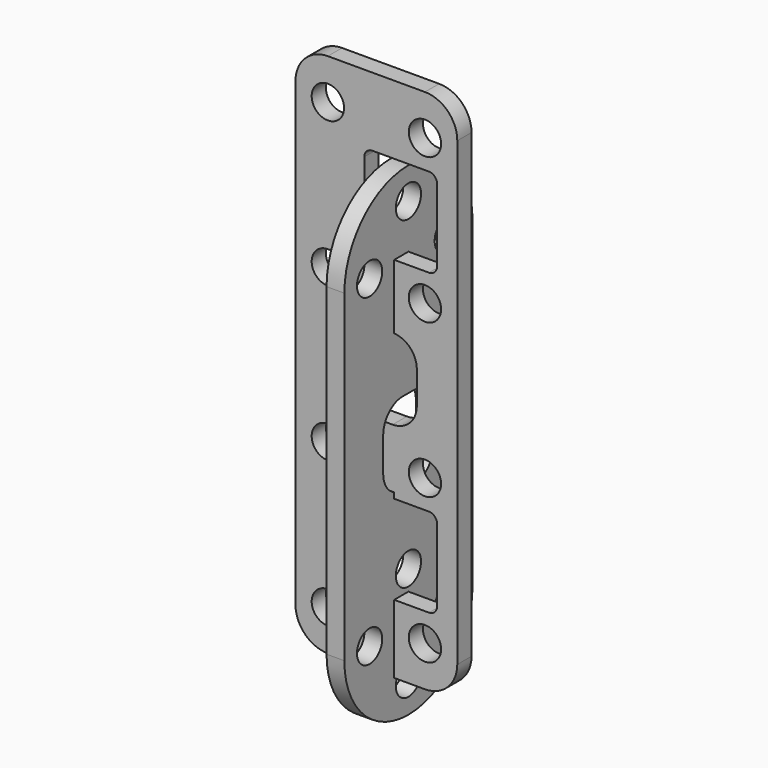
from build123d import *

# Parameters (mm, degrees)
F3_R     = 2
F4_DEPTH = 2.2
F6_DEPTH = 2.2
F7_R     = 1.95
F8_DEPTH = 2.2


with BuildPart() as f4:
    # F3 (on Front) → F4 (new body)
    with BuildSketch(Plane.XZ):
        with BuildLine():
            ThreePointArc((10, 56), (8.8284271247, 58.8284271247), (6, 60))
            Line((6, 60), (-6, 60))
            ThreePointArc((-6, 60), (-8.8284271247, 58.8284271247), (-10, 56))
            Line((-10, 56), (-10, -1))
            ThreePointArc((-10, -1), (-8.8284271247, -3.8284271247), (-6, -5))
            Line((-6, -5), (6, -5))
            ThreePointArc((6, -5), (8.8284271247, -3.8284271247), (10, -1))
            Line((10, -1), (10, 56))
        make_face()
        with Locations((-6, 0)):
            Circle(F3_R, mode=Mode.SUBTRACT)
        with Locations((-6, 18)):
            Circle(F3_R, mode=Mode.SUBTRACT)
        with Locations((6, 0)):
            Circle(F3_R, mode=Mode.SUBTRACT)
        with Locations((6, 18)):
            Circle(F3_R, mode=Mode.SUBTRACT)
        with Locations((-6, 37)):
            Circle(F3_R, mode=Mode.SUBTRACT)
        with Locations((-6, 55)):
            Circle(F3_R, mode=Mode.SUBTRACT)
        with BuildLine():
            ThreePointArc((5, 25.5), (4.1213203436, 23.3786796564), (2, 22.5))
            Line((2, 22.5), (-2, 22.5))
            ThreePointArc((-2, 22.5), (-4.1213203436, 23.3786796564), (-5, 25.5))
            Line((-5, 25.5), (-5, 29.5))
            ThreePointArc((-5, 29.5), (-4.1213203436, 31.6213203436), (-2, 32.5))
            Line((-2, 32.5), (2, 32.5))
            ThreePointArc((2, 32.5), (4.1213203436, 31.6213203436), (5, 29.5))
            Line((5, 29.5), (5, 25.5))
        make_face(mode=Mode.SUBTRACT)
        with Locations((6, 37)):
            Circle(F3_R, mode=Mode.SUBTRACT)
        with Locations((6, 55)):
            Circle(F3_R, mode=Mode.SUBTRACT)
    extrude(amount=F4_DEPTH)

    # F5 (on Front) → F6 (cut, through all)
    with BuildSketch(Plane.XZ):
        with BuildLine():
            Line((6.5, 14.5), (-0.5, 14.5))
            ThreePointArc((-0.5, 14.5), (-1.2071067812, 14.2071067812), (-1.5, 13.5))
            Line((-1.5, 13.5), (-1.5, 4.5))
            ThreePointArc((-1.5, 4.5), (-1.2071067812, 3.7928932188), (-0.5, 3.5))
            Line((-0.5, 3.5), (6.5, 3.5))
            ThreePointArc((6.5, 3.5), (7.2071067812, 3.7928932188), (7.5, 4.5))
            Line((7.5, 4.5), (7.5, 13.5))
            ThreePointArc((7.5, 13.5), (7.2071067812, 14.2071067812), (6.5, 14.5))
        make_face()
        with BuildLine():
            ThreePointArc((-1.5, 41.5), (-1.2071067812, 40.7928932188), (-0.5, 40.5))
            Line((-0.5, 40.5), (6.5, 40.5))
            ThreePointArc((6.5, 40.5), (7.2071067812, 40.7928932188), (7.5, 41.5))
            Line((7.5, 41.5), (7.5, 50.5))
            ThreePointArc((7.5, 50.5), (7.2071067812, 51.2071067812), (6.5, 51.5))
            Line((6.5, 51.5), (-0.5, 51.5))
            ThreePointArc((-0.5, 51.5), (-1.2071067812, 51.2071067812), (-1.5, 50.5))
            Line((-1.5, 50.5), (-1.5, 41.5))
        make_face()
    extrude(amount=F6_DEPTH, mode=Mode.SUBTRACT)


with BuildPart() as f8:
    # F7 (on Right) → F8 (new body)
    with BuildSketch(Plane.YZ):
        with BuildLine():
            ThreePointArc((-9.9, 0), (0, -9.9), (9.9, 0))
            ThreePointArc((9.9, 0), (0, 9.9), (-9.9, 0))
        make_face()
        with Locations((-6, 0)):
            Circle(F7_R, mode=Mode.SUBTRACT)
        with Locations((0, -6)):
            Circle(F7_R, mode=Mode.SUBTRACT)
        Circle(F7_R, mode=Mode.SUBTRACT)
        with Locations((6, 0)):
            Circle(F7_R, mode=Mode.SUBTRACT)
        with Locations((0, 6)):
            Circle(F7_R, mode=Mode.SUBTRACT)
        with BuildLine():
            ThreePointArc((-9.9, 0), (0, 9.9), (9.9, 0))
            Line((9.9, 0), (9.9, 40))
            ThreePointArc((9.9, 40), (0, 30.1), (-9.9, 40))
            Line((-9.9, 40), (-9.9, 0))
        make_face()
        with BuildLine():
            ThreePointArc((3.9, 17.9), (3.0213203436, 15.7786796564), (0.9, 14.9))
            Line((0.9, 14.9), (-0.9, 14.9))
            ThreePointArc((-0.9, 14.9), (-3.0213203436, 15.7786796564), (-3.9, 17.9))
            Line((-3.9, 17.9), (-3.9, 22.1))
            ThreePointArc((-3.9, 22.1), (-3.0213203436, 24.2213203436), (-0.9, 25.1))
            Line((-0.9, 25.1), (0.9, 25.1))
            ThreePointArc((0.9, 25.1), (3.0213203436, 24.2213203436), (3.9, 22.1))
            Line((3.9, 22.1), (3.9, 17.9))
        make_face(mode=Mode.SUBTRACT)
        with BuildLine():
            ThreePointArc((-9.9, 40), (0, 30.1), (9.9, 40))
            ThreePointArc((9.9, 40), (0, 49.9), (-9.9, 40))
        make_face()
        with Locations((-6, 40)):
            Circle(F7_R, mode=Mode.SUBTRACT)
        with Locations((0, 34)):
            Circle(F7_R, mode=Mode.SUBTRACT)
        with Locations((0, 46)):
            Circle(F7_R, mode=Mode.SUBTRACT)
        with Locations((6, 40)):
            Circle(F7_R, mode=Mode.SUBTRACT)
    extrude(amount=F8_DEPTH)


solid = Compound([f4.part, f8.part])
